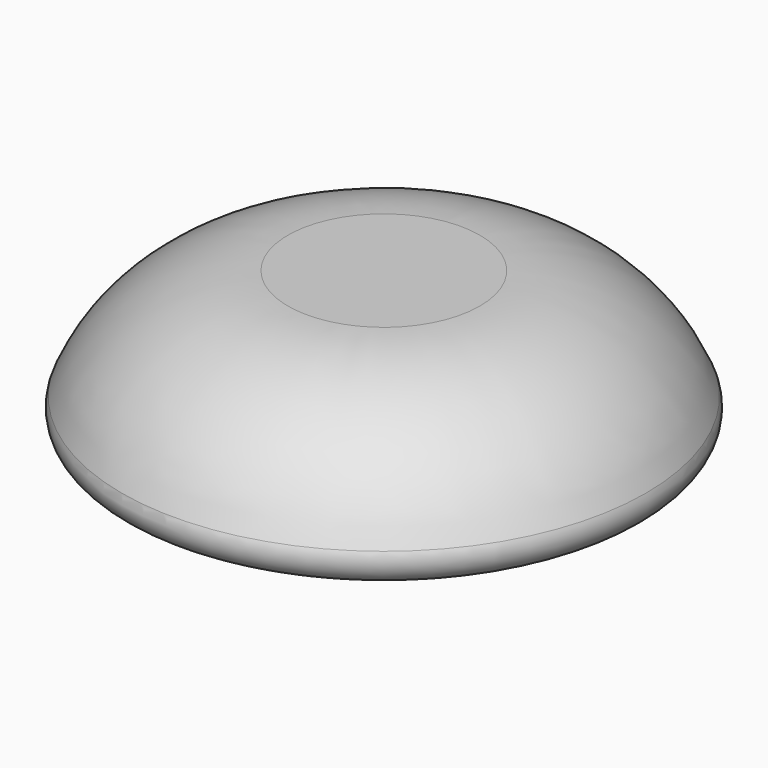
from build123d import *


with BuildPart() as f1:
    # F0 (on Front) → F1 (revolve)
    with BuildSketch(Plane.XZ):
        with BuildLine():
            Line((8, 0), (0, 0))
            Line((0, 0), (0, -12.05763))
            Line((0, -12.05763), (17.853985, -12.05763))
            Line((17.853985, -12.05763), (19.951983, -12.05763))
            ThreePointArc((19.951983, -12.05763), (21.656457, -11.145017), (21.841876, -9.220514))
            ThreePointArc((21.841876, -9.220514), (16.315879, -2.516165), (8, 0))
        make_face()
        with BuildLine():
            Line((17.853985, -12.05763), (0, -12.05763))
            Line((0, -12.05763), (0, -13.822851))
            Line((0, -13.822851), (14.545733, -13.822851))
            ThreePointArc((14.545733, -13.822851), (16.420602, -13.353941), (17.853985, -12.05763))
        make_face()
        with BuildLine():
            Line((14.545733, -13.822851), (0, -13.822851))
            Line((0, -13.822851), (0, -15))
            ThreePointArc((0, -15), (7.326534, -15.074578), (14.545733, -13.822851))
        make_face()
    revolve(axis=Axis((0, 0, -7.5), (0, 0, -1)))


solid = f1.part
